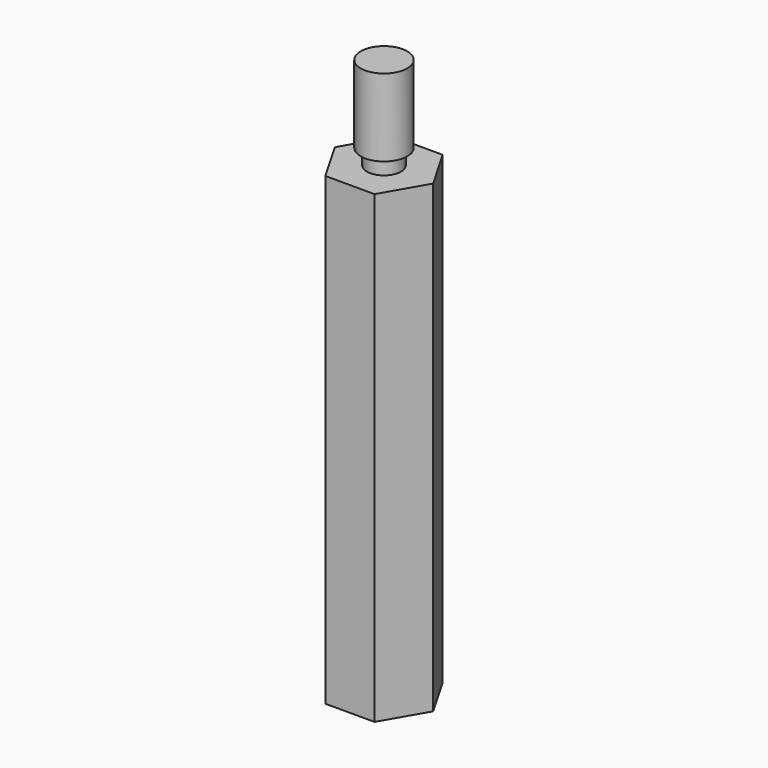
from build123d import *

# Parameters (mm, degrees)
F1_DEPTH = 30
F2_R     = 1.1
F3_DEPTH = 1
F4_R     = 1.5
F5_DEPTH = 5
F6_R     = 1.5
F7_DEPTH = 7


with BuildPart() as f1:
    # F0 (on Top) → F1 (new body)
    with BuildSketch(Plane.XY):
        Polygon((1.5877132403, 2.75), (-1.5877132403, 2.75), (-3.1754264805, 0), (-1.5877132403, -2.75), (1.5877132403, -2.75), (3.1754264805, 0), align=None)
    extrude(amount=F1_DEPTH)

    # F2 (on face) → F3 (join)
    with BuildSketch(Plane.XY.offset(30)):
        Circle(F2_R)
    extrude(amount=F3_DEPTH)

    # F4 (on face) → F5 (join)
    with BuildSketch(Plane.XY.offset(31)):
        Circle(F4_R)
    extrude(amount=F5_DEPTH)

    # F6 (on Top) → F7 (cut)
    with BuildSketch(Plane.XY):
        Circle(F6_R)
    extrude(amount=F7_DEPTH, mode=Mode.SUBTRACT)


solid = f1.part
